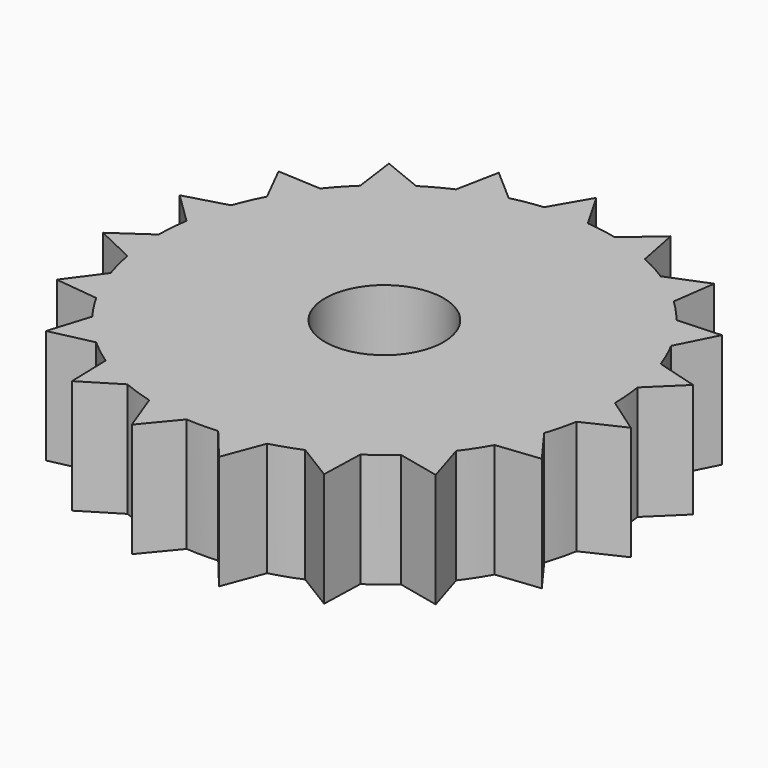
from build123d import *

# Parameters (mm, degrees)
F0_R     = 3.302
F1_DEPTH = 6.35


with BuildPart() as f1:
    # F0 (on Top) → F1 (new body)
    with BuildSketch(Plane.XY):
        with BuildLine():
            ThreePointArc((12.499722, -2.252856), (12.650669, -1.13092), (12.701119, 0))
            ThreePointArc((12.701119, 0), (12.700826, 0.086204), (12.699949, 0.172405))
            ThreePointArc((12.699949, 0.172405), (12.657421, 1.052668), (12.553954, 1.927863))
            ThreePointArc((12.553954, 1.927863), (12.311527, 3.121654), (11.955851, 4.28673))
            ThreePointArc((11.955851, 4.28673), (11.629806, 5.105489), (11.24777, 5.899668))
            ThreePointArc((11.24777, 5.899668), (10.630855, 6.95006), (9.916151, 7.936522))
            ThreePointArc((9.916151, 7.936522), (9.341922, 8.605052), (8.722716, 9.232153))
            ThreePointArc((8.722716, 9.232153), (7.798165, 10.02532), (6.801882, 10.726268))
            ThreePointArc((6.801882, 10.726268), (6.041695, 11.172123), (5.25242, 11.564191))
            ThreePointArc((5.25242, 11.564191), (4.120423, 12.01418), (2.950524, 12.353656))
            ThreePointArc((2.950524, 12.353656), (2.086757, 12.528522), (1.212943, 12.643069))
            ThreePointArc((1.212943, 12.643069), (0.607166, 12.686598), (0, 12.701119))
            ThreePointArc((0, 12.701119), (-0.610992, 12.686414), (-1.22057, 12.642335))
            ThreePointArc((-1.22057, 12.642335), (-2.094314, 12.527261), (-2.957976, 12.351874))
            ThreePointArc((-2.957976, 12.351874), (-4.12767, 12.011693), (-5.259395, 11.56102))
            ThreePointArc((-5.259395, 11.56102), (-6.048433, 11.168477), (-6.808351, 10.722163))
            ThreePointArc((-6.808351, 10.722163), (-7.804211, 10.020614), (-8.728284, 9.226889))
            ThreePointArc((-8.728284, 9.226889), (-9.347111, 8.599415), (-9.920937, 7.930538))
            ThreePointArc((-9.920937, 7.930538), (-10.635046, 6.943646), (-11.251327, 5.892882))
            ThreePointArc((-11.251327, 5.892882), (-11.632884, 5.098473), (-11.958434, 4.279517))
            ThreePointArc((-11.958434, 4.279517), (-12.313408, 3.114226), (-12.555115, 1.920289))
            ThreePointArc((-12.555115, 1.920289), (-12.658054, 1.045032), (-12.70005, 0.164744))
            ThreePointArc((-12.70005, 0.164744), (-12.657421, -1.052668), (-12.498361, -2.260396))
            ThreePointArc((-12.498361, -2.260396), (-12.311527, -3.121654), (-12.065419, -3.967882))
            ThreePointArc((-12.065419, -3.967882), (-11.629806, -5.105489), (-11.087216, -6.196133))
            ThreePointArc((-11.087216, -6.196133), (-10.630855, -6.95006), (-10.123312, -7.670526))
            ThreePointArc((-10.123312, -7.670526), (-9.341922, -8.605052), (-8.474599, -9.460423))
            ThreePointArc((-8.474599, -9.460423), (-7.798165, -10.02532), (-7.084187, -10.54195))
            ThreePointArc((-7.084187, -10.54195), (-6.041695, -11.172123), (-4.943627, -11.699528))
            ThreePointArc((-4.943627, -11.699528), (-4.120423, -12.01418), (-3.27738, -12.27099))
            ThreePointArc((-3.27738, -12.27099), (-2.086757, -12.528522), (-0.876937, -12.670809))
            ThreePointArc((-0.876937, -12.670809), (0.003831, -12.701118), (0.884581, -12.670278))
            ThreePointArc((0.884581, -12.670278), (2.094314, -12.527261), (3.284782, -12.269011))
            ThreePointArc((3.284782, -12.269011), (4.12767, -12.011693), (4.950684, -11.696544))
            ThreePointArc((4.950684, -11.696544), (6.048433, -11.168477), (7.090545, -10.537675))
            ThreePointArc((7.090545, -10.537675), (7.804211, -10.020614), (8.480304, -9.455308))
            ThreePointArc((8.480304, -9.455308), (9.347111, -8.599415), (10.127937, -7.664418))
            ThreePointArc((10.127937, -7.664418), (10.635046, -6.943646), (11.090952, -6.189443))
            ThreePointArc((11.090952, -6.189443), (11.632884, -5.098473), (12.06781, -3.960603))
            ThreePointArc((12.06781, -3.960603), (12.313408, -3.114226), (12.499722, -2.252856))
        make_face()
        Circle(F0_R, mode=Mode.SUBTRACT)
        with BuildLine():
            ThreePointArc((12.699949, 0.172405), (12.700826, 0.086204), (12.701119, 0))
            ThreePointArc((12.701119, 0), (12.650669, -1.13092), (12.499722, -2.252856))
            Line((12.499722, -2.252856), (14.69304, -1.2175))
            Line((14.69304, -1.2175), (12.699949, 0.172405))
        make_face()
        with BuildLine():
            ThreePointArc((11.955851, 4.28673), (12.311527, 3.121654), (12.553954, 1.927863))
            Line((12.553954, 1.927863), (14.292252, 3.61929))
            Line((14.292252, 3.61929), (11.955851, 4.28673))
        make_face()
        with BuildLine():
            Line((13.501609, -5.922355), (12.06781, -3.960603))
            ThreePointArc((12.06781, -3.960603), (11.632884, -5.098473), (11.090952, -6.189443))
            Line((11.090952, -6.189443), (13.501609, -5.922355))
        make_face()
        with BuildLine():
            ThreePointArc((9.916151, 7.936522), (10.630855, 6.95006), (11.24777, 5.899668))
            Line((11.24777, 5.899668), (12.342677, 8.063873))
            Line((12.342677, 8.063873), (9.916151, 7.936522))
        make_face()
        with BuildLine():
            Line((10.847069, -9.98543), (10.127937, -7.664418))
            ThreePointArc((10.127937, -7.664418), (9.347111, -8.599415), (8.480304, -9.455308))
            Line((8.480304, -9.455308), (10.847069, -9.98543))
        make_face()
        with BuildLine():
            ThreePointArc((6.801882, 10.726268), (7.798165, 10.02532), (8.722716, 9.232153))
            Line((8.722716, 9.232153), (9.055581, 11.634611))
            Line((9.055581, 11.634611), (6.801882, 10.726268))
        make_face()
        with BuildLine():
            Line((7.017081, -12.96643), (7.090545, -10.537675))
            ThreePointArc((7.090545, -10.537675), (6.048433, -11.168477), (4.950684, -11.696544))
            Line((4.950684, -11.696544), (7.017081, -12.96643))
        make_face()
        with BuildLine():
            ThreePointArc((2.950524, 12.353656), (4.120423, 12.01418), (5.25242, 11.564191))
            Line((5.25242, 11.564191), (4.787173, 13.944558))
            Line((4.787173, 13.944558), (2.950524, 12.353656))
        make_face()
        with BuildLine():
            Line((2.426683, -14.542315), (3.284782, -12.269011))
            ThreePointArc((3.284782, -12.269011), (2.094314, -12.527261), (0.884581, -12.670278))
            Line((0.884581, -12.670278), (2.426683, -14.542315))
        make_face()
        with BuildLine():
            ThreePointArc((0, 12.701119), (0.607166, 12.686598), (1.212943, 12.643069))
            Line((1.212943, 12.643069), (0, 14.743396))
            Line((0, 14.743396), (0, 12.701119))
        make_face()
        with BuildLine():
            Line((-2.426683, -14.542315), (-0.876937, -12.670809))
            ThreePointArc((-0.876937, -12.670809), (-2.086757, -12.528522), (-3.27738, -12.27099))
            Line((-3.27738, -12.27099), (-2.426683, -14.542315))
        make_face()
        with BuildLine():
            ThreePointArc((-1.22057, 12.642335), (-0.610992, 12.686414), (0, 12.701119))
            Line((0, 12.701119), (0, 14.743396))
            Line((0, 14.743396), (-1.22057, 12.642335))
        make_face()
        with BuildLine():
            Line((-7.017081, -12.96643), (-4.943627, -11.699528))
            ThreePointArc((-4.943627, -11.699528), (-6.041695, -11.172123), (-7.084187, -10.54195))
            Line((-7.084187, -10.54195), (-7.017081, -12.96643))
        make_face()
        with BuildLine():
            ThreePointArc((-5.259395, 11.56102), (-4.12767, 12.011693), (-2.957976, 12.351874))
            Line((-2.957976, 12.351874), (-4.787173, 13.944558))
            Line((-4.787173, 13.944558), (-5.259395, 11.56102))
        make_face()
        with BuildLine():
            Line((-10.847069, -9.98543), (-8.474599, -9.460423))
            ThreePointArc((-8.474599, -9.460423), (-9.341922, -8.605052), (-10.123312, -7.670526))
            Line((-10.123312, -7.670526), (-10.847069, -9.98543))
        make_face()
        with BuildLine():
            ThreePointArc((-8.728284, 9.226889), (-7.804211, 10.020614), (-6.808351, 10.722163))
            Line((-6.808351, 10.722163), (-9.055581, 11.634611))
            Line((-9.055581, 11.634611), (-8.728284, 9.226889))
        make_face()
        with BuildLine():
            Line((-13.501609, -5.922355), (-11.087216, -6.196133))
            ThreePointArc((-11.087216, -6.196133), (-11.629806, -5.105489), (-12.065419, -3.967882))
            Line((-12.065419, -3.967882), (-13.501609, -5.922355))
        make_face()
        with BuildLine():
            ThreePointArc((-11.251327, 5.892882), (-10.635046, 6.943646), (-9.920937, 7.930538))
            Line((-9.920937, 7.930538), (-12.342677, 8.063873))
            Line((-12.342677, 8.063873), (-11.251327, 5.892882))
        make_face()
        with BuildLine():
            Line((-14.69304, -1.2175), (-12.498361, -2.260396))
            ThreePointArc((-12.498361, -2.260396), (-12.657421, -1.052668), (-12.70005, 0.164744))
            Line((-12.70005, 0.164744), (-14.69304, -1.2175))
        make_face()
        with BuildLine():
            ThreePointArc((-12.555115, 1.920289), (-12.313408, 3.114226), (-11.958434, 4.279517))
            Line((-11.958434, 4.279517), (-14.292252, 3.61929))
            Line((-14.292252, 3.61929), (-12.555115, 1.920289))
        make_face()
    extrude(amount=F1_DEPTH)


solid = f1.part
